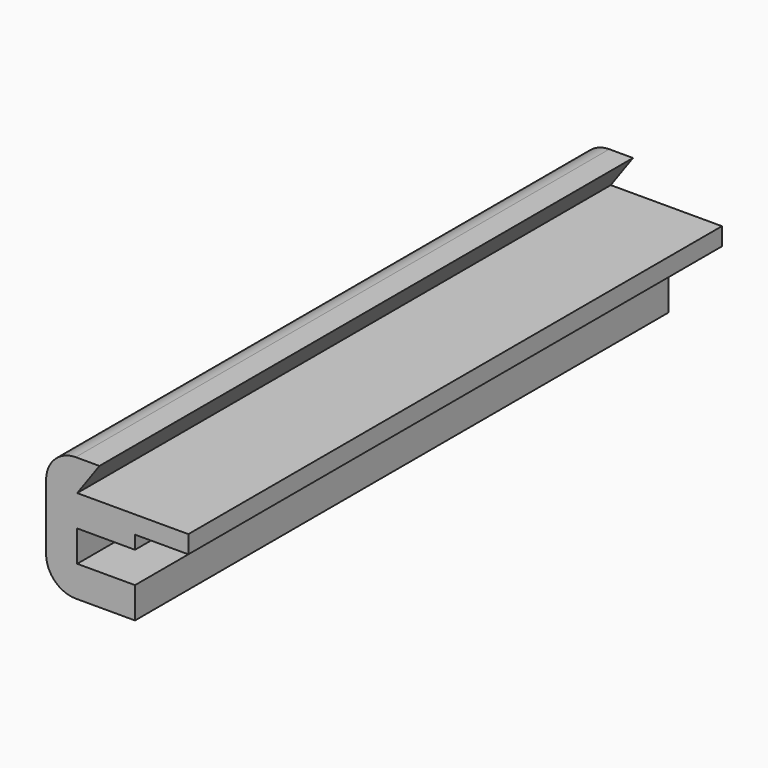
from build123d import *

# Parameters (mm, degrees)
F0_W     = 3.6
F0_H     = 1.2
F1_DEPTH = 45
F2_R     = 2


with BuildPart() as f1:
    # F0 (on Front) → F1 (new body)
    with BuildSketch(Plane.XZ):
        Polygon((1.5, 35.552616), (-2.1, 35.552616), (-2.1, 27.152616), (3.9, 27.152616), (3.9, 29.252616), (0, 29.252616), (0, 31.352616), (3.9, 31.352616), (3.9, 32.252616), (3.9, 33.452616), (0, 33.452616), align=None)
        with Locations((5.7, 32.852616)):
            Rectangle(F0_W, F0_H)
    extrude(amount=F1_DEPTH)

    # F2
    f2_edges = [f1.edges().sort_by_distance(p)[0] for p in [
        (-2.1, -22.5, 27.152616),
        (-2.1, -22.5, 35.552616),
    ]]
    fillet(f2_edges, radius=F2_R)


solid = f1.part
